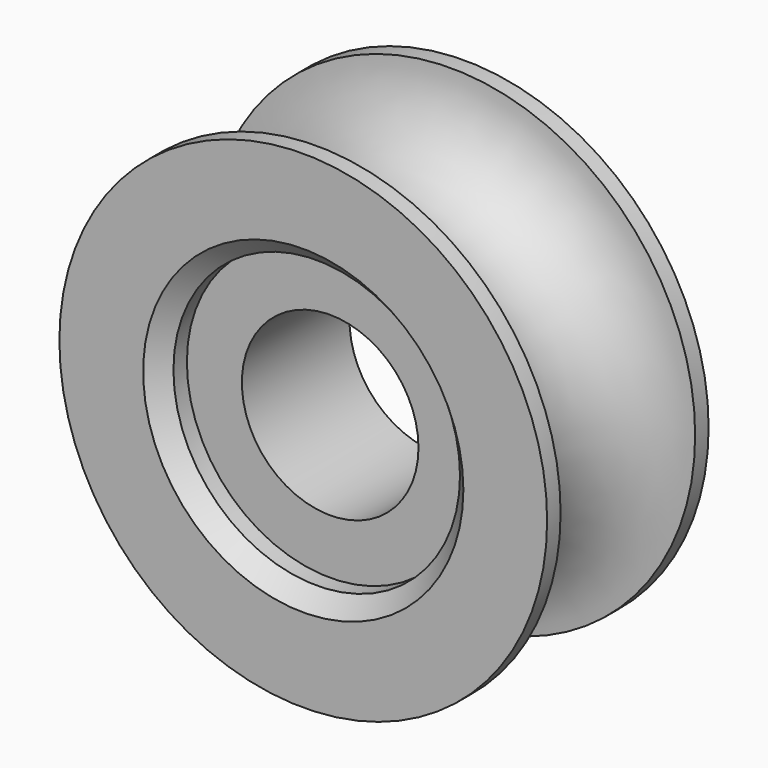
from build123d import *

# Parameters (mm, degrees)
F0_R     = 14.5
F1_DEPTH = 12
F2_W     = 5.25
F2_H     = 8
F2_R     = 5
F4_SIZE  = 1


with BuildPart() as f1:
    # F0 (on Front) → F1 (new body)
    with BuildSketch(Plane.XZ):
        Circle(F0_R)
    extrude(amount=F1_DEPTH)

    # F2 (on Top) → F3 (revolve, cut)
    with BuildSketch(Plane.XY):
        with Locations((2.625, -6)):
            Rectangle(F2_W, F2_H)
        Polygon((5.25, -10), (0, -10), (0, -12.965777), (8.519073, -12.965777), (8.519073, -10), align=None)
        Polygon((0, 0), (0, -2), (5.25, -2), (8.519073, -2), (8.519073, 0), align=None)
        with Locations((14.5, -6)):
            Circle(F2_R)
    revolve(axis=Axis((0, -8.281275, 0), (0, -1, 0)), mode=Mode.SUBTRACT)

    # F4
    f4_edges = [f1.edges().sort_by_distance(p)[0] for p in [
        (-8.519073, 0, 0),
        (-8.519073, -12, 0),
    ]]
    chamfer(f4_edges, length=F4_SIZE)


solid = f1.part
